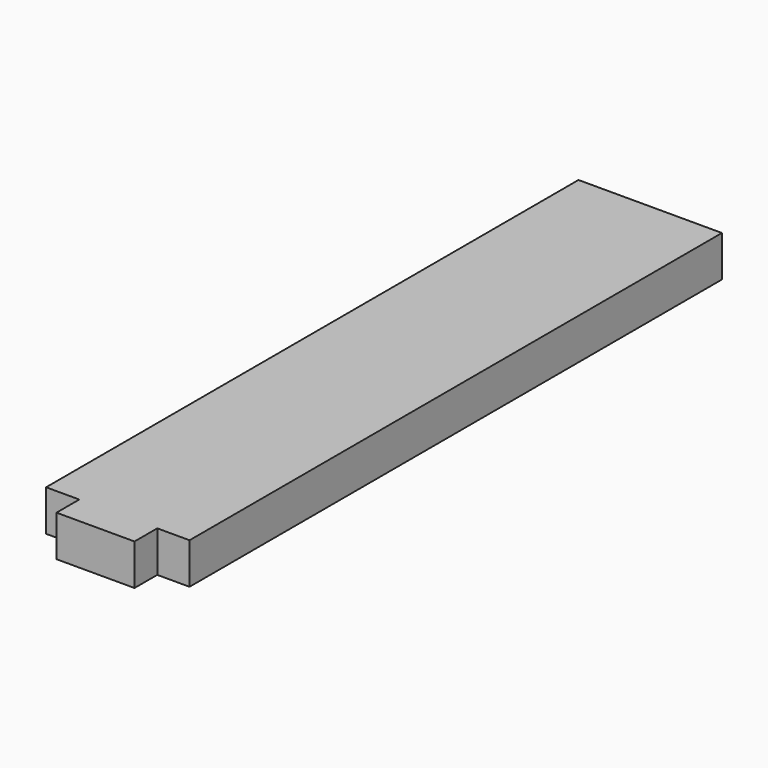
from build123d import *

# Parameters (mm, degrees)
F0_W     = 25.2
F0_H     = 7.2
F1_DEPTH = 58.45
F2_W     = 13.700049
F2_H     = 7.2
F3_DEPTH = 5


with BuildPart() as f1:
    # F0 (on Front) → F1 (new body, symmetric)
    with BuildSketch(Plane.XZ):
        with Locations((-6.539625, 22.297869)):
            Rectangle(F0_W, F0_H)
    extrude(amount=F1_DEPTH, both=True)

    # F2 (on face) → F3 (join)
    with BuildSketch(Plane.XZ.offset(58.45)):
        with Locations((-6.460382, 22.297869)):
            Rectangle(F2_W, F2_H)
    extrude(amount=F3_DEPTH)


solid = f1.part
